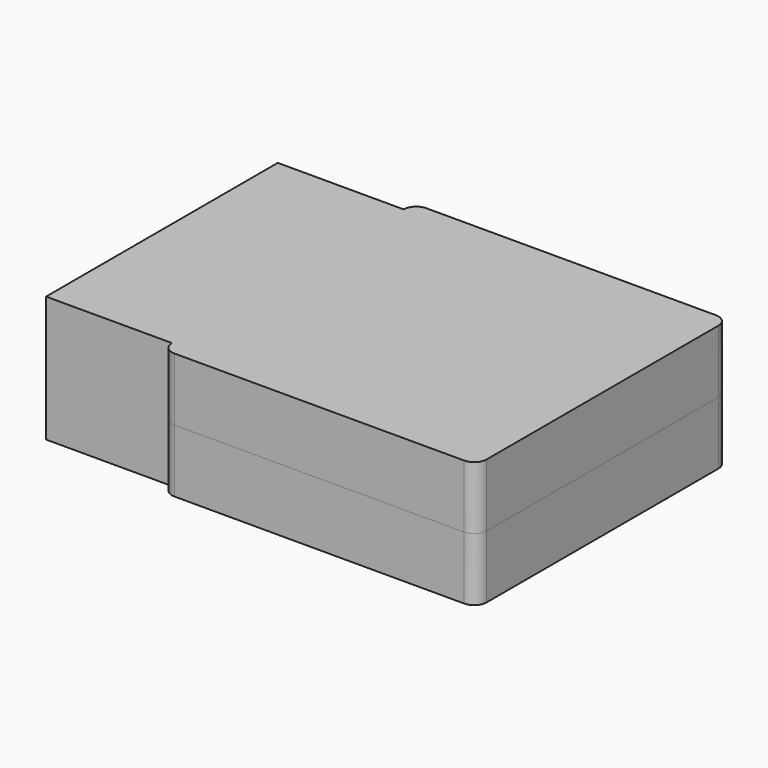
from build123d import *

# Parameters (mm, degrees)
F0_W     = 127
F0_H     = 127
F1_DEPTH = 25.4
F2_R     = 5.08
F3_DEPTH = 25.4
F4_DEPTH = 25.4
F5_DEPTH = 25.399999693
F6_DEPTH = 25.4


with BuildPart() as f1:
    # F0 (on Top) → F1 (new body)
    with BuildSketch(Plane.XY):
        with Locations((-6.1427538668, 6.0419291258)):
            Rectangle(F0_W, F0_H)
    extrude(amount=F1_DEPTH)

    # F2
    f2_edges = [f1.edges().sort_by_distance(p)[0] for p in [
        (57.357246, -57.458071, 12.7),
        (57.357246, 69.541929, 12.7),
        (-69.642754, -57.458071, 12.7),
        (-69.642754, 69.541929, 12.7),
    ]]
    fillet(f2_edges, radius=F2_R)

    # F3 (add): a face of the model
    f3_faces = [f1.faces().sort_by_distance(p)[0] for p in [
        (-69.6427538668, 6.0419291258, 12.7),
    ]]
    extrude(f3_faces, amount=F3_DEPTH)

    # F4 (add): a face of the model
    f4_faces = [f1.faces().sort_by_distance(p)[0] for p in [
        (-95.0427538668, 6.0419291258, 12.7),
    ]]
    extrude(f4_faces, amount=F4_DEPTH)

    # F5 (add): a face of the model
    f5_faces = [f1.faces().sort_by_distance(p)[0] for p in [
        (-120.4427538668, 6.0419291258, 12.7),
    ]]
    extrude(f5_faces, amount=-F5_DEPTH)

    # F6 (add): a face of the model
    f6_faces = [f1.faces().sort_by_distance(p)[0] for p in [
        (-30.0814078041, 6.0419291258, 25.4),
    ]]
    extrude(f6_faces, amount=F6_DEPTH)


solid = f1.part
